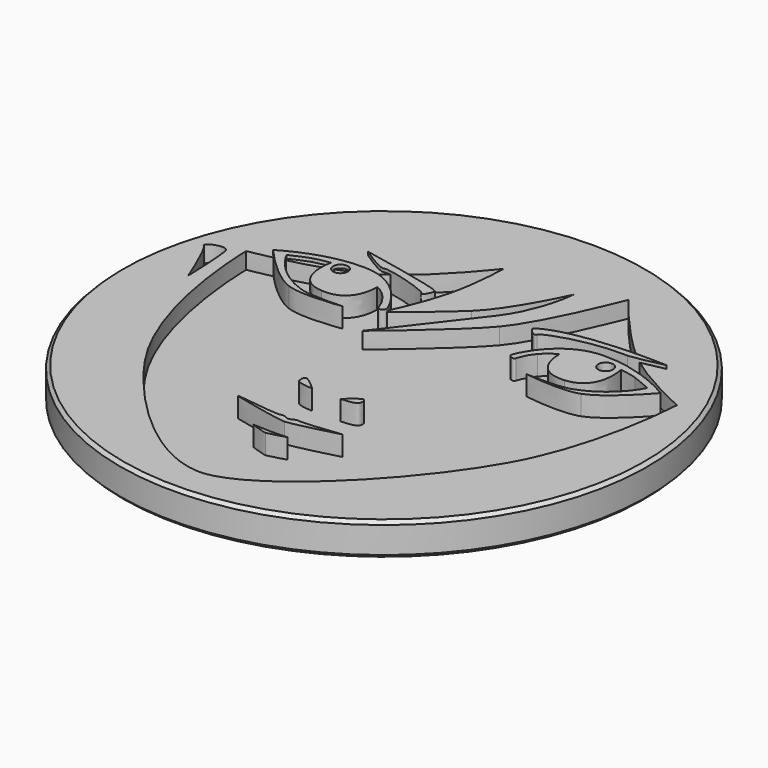
from build123d import *

# Parameters (mm, degrees)
POCKET_DEPTH = 1.25
PAD_DEPTH    = 1.5


with BuildPart() as part:
    # Sketch (on DatumPlane) → Revolution (revolve)
    with BuildSketch(Plane.YZ):
        Polygon((0, 0), (0, -2.5), (19.75, -2.5), (20, -2.25), (20, -0.25), (19.75, 0), align=None)
    revolve(axis=Axis((0, 0, 0), (0, 0, 1)))

    # Sketch005 → Pocket (cut)
    with BuildSketch(Plane.XY):
        with BuildLine():
            add(Edge.make_bspline(
                [(-0.194835, -17.48724), (-3.877835, -17.243823), (-8.725001, -12.301407), (-11.413168, -8.37499)],
                knots=[0, 0, 0, 0, 1, 1, 1, 1], degree=3))
            add(Edge.make_bspline(
                [(-11.413168, -8.37499), (-15.498334, -2.416573), (-15.498334, 6.325261), (-15.498334, 6.325261)],
                knots=[0, 0, 0, 0, 1, 1, 1, 1], degree=3))
            add(Edge.make_bspline(
                [(-15.498334, 6.325261), (-15.498334, 6.325261), (-11.529584, 6.970844), (-8.555668, 8.314927)],
                knots=[0, 0, 0, 0, 1, 1, 1, 1], degree=3))
            add(Edge.make_bspline(
                [(-8.555668, 8.314927), (-5.581751, 9.648427), (-2.184501, 14.082844), (-2.184501, 14.082844)],
                knots=[0, 0, 0, 0, 1, 1, 1, 1], degree=3))
            add(Edge.make_bspline(
                [(-2.184501, 14.082844), (-2.184501, 14.082844), (-2.205668, 11.701594), (-2.734835, 9.574344)],
                knots=[0, 0, 0, 0, 1, 1, 1, 1], degree=3))
            add(Edge.make_bspline(
                [(-2.734835, 9.574344), (-3.264001, 7.457677), (-4.407001, 5.182261), (-4.407001, 5.182261)],
                knots=[0, 0, 0, 0, 1, 1, 1, 1], degree=3))
            add(Edge.make_bspline(
                [(-4.407001, 5.182261), (-4.407001, 5.182261), (-1.983418, 7.087261), (-0.300668, 8.685344)],
                knots=[0, 0, 0, 0, 1, 1, 1, 1], degree=3))
            add(Edge.make_bspline(
                [(-0.300668, 8.685344), (1.382082, 10.272844), (3.117749, 14.082844), (3.117749, 14.082844)],
                knots=[0, 0, 0, 0, 1, 1, 1, 1], degree=3))
            add(Edge.make_bspline(
                [(3.117749, 14.082844), (3.117749, 14.082844), (2.884915, 11.257094), (1.212749, 9.087511)],
                knots=[0, 0, 0, 0, 1, 1, 1, 1], degree=3))
            add(Edge.make_bspline(
                [(1.212749, 9.087511), (0.704749, 8.420761), (-3.750835, 2.642261), (-3.750835, 2.642261)],
                knots=[0, 0, 0, 0, 1, 1, 1, 1], degree=3))
            add(Edge.make_bspline(
                [(-3.750835, 2.642261), (-3.750835, 2.642261), (0.598915, 6.208844), (2.239332, 8.135011)],
                knots=[0, 0, 0, 0, 1, 1, 1, 1], degree=3))
            add(Edge.make_bspline(
                [(2.239332, 8.135011), (3.953832, 10.156427), (6.059915, 15.575094), (6.059915, 15.575094)],
                knots=[0, 0, 0, 0, 1, 1, 1, 1], degree=3))
            add(Edge.make_bspline(
                [(6.059915, 15.575094), (6.059915, 15.575094), (8.779832, 12.040261), (11.245748, 9.997677)],
                knots=[0, 0, 0, 0, 1, 1, 1, 1], degree=3))
            add(Edge.make_bspline(
                [(11.245748, 9.997677), (13.193082, 8.399594), (16.738498, 6.833261), (16.738498, 6.833261)],
                knots=[0, 0, 0, 0, 1, 1, 1, 1], degree=3))
            add(Edge.make_bspline(
                [(16.738498, 6.833261), (16.738498, 6.833261), (16.431582, -0.02474), (13.574082, -5.115323)],
                knots=[0, 0, 0, 0, 1, 1, 1, 1], degree=3))
            add(Edge.make_bspline(
                [(13.574082, -5.115323), (10.494332, -10.618656), (3.488165, -17.730657), (-0.194835, -17.48724)],
                knots=[0, 0, 0, 0, 1, 1, 1, 1], degree=3))
        make_face()
        with BuildLine():
            add(Edge.make_bspline(
                [(-16.461418, 5.542094), (-16.313251, 4.843594), (-16.207418, 1.710927), (-16.207418, 1.710927)],
                knots=[0, 0, 0, 0, 1, 1, 1, 1], degree=3))
            add(Edge.make_bspline(
                [(-16.207418, 1.710927), (-16.207418, 1.710927), (-17.509168, 5.023511), (-17.890168, 5.298677)],
                knots=[0, 0, 0, 0, 1, 1, 1, 1], degree=3))
            add(Edge.make_bspline(
                [(-17.890168, 5.298677), (-18.260584, 5.563261), (-16.609584, 6.293511), (-16.461418, 5.542094)],
                knots=[0, 0, 0, 0, 1, 1, 1, 1], degree=3))
        make_face()
    extrude(amount=-POCKET_DEPTH, mode=Mode.SUBTRACT)

    # Sketch006 → Pad (join)
    with BuildSketch(Plane.XY.offset(-1.25)):
        with BuildLine():
            add(Edge.make_bspline(
                [(9.647665, 8.706511), (6.631415, 8.643011), (5.361415, 5.573844), (5.350832, 5.383344)],
                knots=[0, 0, 0, 0, 1, 1, 1, 1], degree=3))
            add(Edge.make_bspline(
                [(5.350832, 5.383344), (5.340249, 5.139927), (5.731832, 4.970594), (5.837665, 5.203427)],
                knots=[0, 0, 0, 0, 1, 1, 1, 1], degree=3))
            add(Edge.make_bspline(
                [(5.837665, 5.203427), (5.943499, 5.436261), (5.985832, 5.806677), (6.493832, 6.409927)],
                knots=[0, 0, 0, 0, 1, 1, 1, 1], degree=3))
            add(Edge.make_bspline(
                [(6.493832, 6.409927), (7.001832, 7.023761), (7.530999, 7.203677), (7.530999, 7.203677)],
                knots=[0, 0, 0, 0, 1, 1, 1, 1], degree=3))
            add(Edge.make_bspline(
                [(7.530999, 7.203677), (7.530999, 7.203677), (7.393415, 4.600177), (9.838165, 4.801261)],
                knots=[0, 0, 0, 0, 1, 1, 1, 1], degree=3))
            add(Edge.make_bspline(
                [(9.838165, 4.801261), (12.272332, 5.002344), (11.616165, 7.933927), (11.616165, 7.933927)],
                knots=[0, 0, 0, 0, 1, 1, 1, 1], degree=3))
            add(Edge.make_bspline(
                [(11.616165, 7.933927), (11.616165, 7.933927), (12.325248, 7.849261), (12.864998, 7.679927)],
                knots=[0, 0, 0, 0, 1, 1, 1, 1], degree=3))
            add(Edge.make_bspline(
                [(12.864998, 7.679927), (13.404748, 7.510594), (14.283165, 7.076677), (14.283165, 7.076677)],
                knots=[0, 0, 0, 0, 1, 1, 1, 1], degree=3))
            add(Edge.make_bspline(
                [(14.283165, 7.076677), (14.283165, 7.076677), (13.383582, 5.065844), (10.907082, 4.198011)],
                knots=[0, 0, 0, 0, 1, 1, 1, 1], degree=3))
            add(Edge.make_bspline(
                [(10.907082, 4.198011), (9.933415, 3.859344), (7.605082, 4.007511), (7.605082, 4.007511)],
                knots=[0, 0, 0, 0, 1, 1, 1, 1], degree=3))
            add(Edge.make_bspline(
                [(7.605082, 4.007511), (7.605082, 4.007511), (10.356748, 3.573594), (11.679665, 4.049844)],
                knots=[0, 0, 0, 0, 1, 1, 1, 1], degree=3))
            add(Edge.make_bspline(
                [(11.679665, 4.049844), (13.193082, 4.589594), (15.309748, 7.066094), (15.309748, 7.066094)],
                knots=[0, 0, 0, 0, 1, 1, 1, 1], degree=3))
            add(Edge.make_bspline(
                [(15.309748, 7.066094), (15.309748, 7.066094), (12.695665, 8.770011), (9.647665, 8.706511)],
                knots=[0, 0, 0, 0, 1, 1, 1, 1], degree=3))
        make_face()
        with BuildLine():
            add(Edge.make_bspline(
                [(10.674248, 7.097844), (10.367332, 7.097844), (10.113332, 7.351844), (10.113332, 7.658761)],
                knots=[0, 0, 0, 0, 1, 1, 1, 1], degree=3))
            add(Edge.make_bspline(
                [(10.113332, 7.658761), (10.113332, 7.965677), (10.367332, 8.219677), (10.674248, 8.219677)],
                knots=[0, 0, 0, 0, 1, 1, 1, 1], degree=3))
            add(Edge.make_bspline(
                [(10.674248, 8.219677), (10.981165, 8.219677), (11.235165, 7.965677), (11.235165, 7.658761)],
                knots=[0, 0, 0, 0, 1, 1, 1, 1], degree=3))
            add(Edge.make_bspline(
                [(11.235165, 7.658761), (11.245748, 7.351844), (10.991748, 7.097844), (10.674248, 7.097844)],
                knots=[0, 0, 0, 0, 1, 1, 1, 1], degree=3))
        make_face(mode=Mode.SUBTRACT)
        with BuildLine():
            add(Edge.make_bspline(
                [(-14.048418, 7.055511), (-14.048418, 7.055511), (-11.931751, 4.589594), (-10.418334, 4.039261)],
                knots=[0, 0, 0, 0, 1, 1, 1, 1], degree=3))
            add(Edge.make_bspline(
                [(-10.418334, 4.039261), (-9.095418, 3.563011), (-6.343751, 3.996927), (-6.343751, 3.996927)],
                knots=[0, 0, 0, 0, 1, 1, 1, 1], degree=3))
            add(Edge.make_bspline(
                [(-6.343751, 3.996927), (-6.343751, 3.996927), (-8.672084, 3.848761), (-9.645751, 4.187427)],
                knots=[0, 0, 0, 0, 1, 1, 1, 1], degree=3))
            add(Edge.make_bspline(
                [(-9.645751, 4.187427), (-12.122251, 5.055261), (-13.021834, 7.066094), (-13.021834, 7.066094)],
                knots=[0, 0, 0, 0, 1, 1, 1, 1], degree=3))
            add(Edge.make_bspline(
                [(-13.021834, 7.066094), (-13.021834, 7.066094), (-12.143418, 7.489427), (-11.603668, 7.669344)],
                knots=[0, 0, 0, 0, 1, 1, 1, 1], degree=3))
            add(Edge.make_bspline(
                [(-11.603668, 7.669344), (-11.063918, 7.838677), (-10.354834, 7.923344), (-10.354834, 7.923344)],
                knots=[0, 0, 0, 0, 1, 1, 1, 1], degree=3))
            add(Edge.make_bspline(
                [(-10.354834, 7.923344), (-10.354834, 7.923344), (-11.011001, 4.991761), (-8.576834, 4.790677)],
                knots=[0, 0, 0, 0, 1, 1, 1, 1], degree=3))
            add(Edge.make_bspline(
                [(-8.576834, 4.790677), (-6.132084, 4.589594), (-6.269668, 7.193094), (-6.269668, 7.193094)],
                knots=[0, 0, 0, 0, 1, 1, 1, 1], degree=3))
            add(Edge.make_bspline(
                [(-6.269668, 7.193094), (-6.269668, 7.193094), (-5.729918, 7.013177), (-5.232501, 6.399344)],
                knots=[0, 0, 0, 0, 1, 1, 1, 1], degree=3))
            add(Edge.make_bspline(
                [(-5.232501, 6.399344), (-4.724501, 5.785511), (-4.682168, 5.415094), (-4.576335, 5.192844)],
                knots=[0, 0, 0, 0, 1, 1, 1, 1], degree=3))
            add(Edge.make_bspline(
                [(-4.576335, 5.192844), (-4.470501, 4.960011), (-4.078918, 5.129344), (-4.089501, 5.372761)],
                knots=[0, 0, 0, 0, 1, 1, 1, 1], degree=3))
            add(Edge.make_bspline(
                [(-4.089501, 5.372761), (-4.100085, 5.563261), (-5.370084, 8.621844), (-8.386334, 8.695927)],
                knots=[0, 0, 0, 0, 1, 1, 1, 1], degree=3))
            add(Edge.make_bspline(
                [(-8.386334, 8.695927), (-11.434334, 8.770011), (-14.048418, 7.055511), (-14.048418, 7.055511)],
                knots=[0, 0, 0, 0, 1, 1, 1, 1], degree=3))
        make_face()
        with BuildLine():
            add(Edge.make_bspline(
                [(-9.973834, 7.658761), (-9.973834, 7.965677), (-9.719834, 8.219677), (-9.412918, 8.219677)],
                knots=[0, 0, 0, 0, 1, 1, 1, 1], degree=3))
            add(Edge.make_bspline(
                [(-9.412918, 8.219677), (-9.106001, 8.219677), (-8.852001, 7.965677), (-8.852001, 7.658761)],
                knots=[0, 0, 0, 0, 1, 1, 1, 1], degree=3))
            add(Edge.make_bspline(
                [(-8.852001, 7.658761), (-8.852001, 7.351844), (-9.106001, 7.097844), (-9.412918, 7.097844)],
                knots=[0, 0, 0, 0, 1, 1, 1, 1], degree=3))
            add(Edge.make_bspline(
                [(-9.412918, 7.097844), (-9.719834, 7.097844), (-9.973834, 7.351844), (-9.973834, 7.658761)],
                knots=[0, 0, 0, 0, 1, 1, 1, 1], degree=3))
        make_face(mode=Mode.SUBTRACT)
        with BuildLine():
            add(Edge.make_bspline(
                [(-3.740251, 8.219677), (-3.623835, 7.912761), (-3.306335, 8.600677), (-3.242835, 8.886427)],
                knots=[0, 0, 0, 0, 1, 1, 1, 1], degree=3))
            add(Edge.make_bspline(
                [(-3.242835, 8.886427), (-3.189918, 9.172177), (-9.539918, 10.410427), (-9.539918, 10.410427)],
                knots=[0, 0, 0, 0, 1, 1, 1, 1], degree=3))
            add(Edge.make_bspline(
                [(-9.539918, 10.410427), (-9.539918, 10.410427), (-7.783084, 9.172177), (-7.402084, 9.309761)],
                knots=[0, 0, 0, 0, 1, 1, 1, 1], degree=3))
            add(Edge.make_bspline(
                [(-7.402084, 9.309761), (-7.021084, 9.457927), (-3.856668, 8.526594), (-3.740251, 8.219677)],
                knots=[0, 0, 0, 0, 1, 1, 1, 1], degree=3))
        make_face()
        with BuildLine():
            add(Edge.make_bspline(
                [(4.927499, 8.346677), (4.811082, 8.039761), (4.049082, 8.738261), (4.303082, 8.886427)],
                knots=[0, 0, 0, 0, 1, 1, 1, 1], degree=3))
            add(Edge.make_bspline(
                [(4.303082, 8.886427), (6.790165, 10.410427), (13.341248, 10.071761), (13.341248, 10.071761)],
                knots=[0, 0, 0, 0, 1, 1, 1, 1], degree=3))
            add(Edge.make_bspline(
                [(13.341248, 10.071761), (13.341248, 10.071761), (11.203415, 9.584927), (10.790665, 9.595511)],
                knots=[0, 0, 0, 0, 1, 1, 1, 1], degree=3))
            add(Edge.make_bspline(
                [(10.790665, 9.595511), (7.753248, 9.690761), (5.043915, 8.653594), (4.927499, 8.346677)],
                knots=[0, 0, 0, 0, 1, 1, 1, 1], degree=3))
        make_face()
        with BuildLine():
            add(Edge.make_bspline(
                [(-1.157918, -5.348156), (-1.157918, -5.348156), (-2.300918, -5.32699), (-2.375001, -5.04124)],
                knots=[0, 0, 0, 0, 1, 1, 1, 1], degree=3))
            add(Edge.make_bspline(
                [(-2.375001, -5.04124), (-2.449085, -4.75549), (-2.427918, -4.66024), (-2.279751, -4.543823)],
                knots=[0, 0, 0, 0, 1, 1, 1, 1], degree=3))
            add(Edge.make_bspline(
                [(-2.279751, -4.543823), (-2.131585, -4.43799), (-1.157918, -5.348156), (-1.157918, -5.348156)],
                knots=[0, 0, 0, 0, 1, 1, 1, 1], degree=3))
        make_face()
        with BuildLine():
            add(Edge.make_bspline(
                [(0.990499, -5.348156), (0.990499, -5.348156), (2.133499, -5.32699), (2.207582, -5.04124)],
                knots=[0, 0, 0, 0, 1, 1, 1, 1], degree=3))
            add(Edge.make_bspline(
                [(2.207582, -5.04124), (2.281665, -4.75549), (2.260499, -4.66024), (2.112332, -4.543823)],
                knots=[0, 0, 0, 0, 1, 1, 1, 1], degree=3))
            add(Edge.make_bspline(
                [(2.112332, -4.543823), (1.964165, -4.43799), (0.990499, -5.348156), (0.990499, -5.348156)],
                knots=[0, 0, 0, 0, 1, 1, 1, 1], degree=3))
        make_face()
        with BuildLine():
            add(Edge.make_bspline(
                [(-3.973085, -8.840656), (-3.676751, -8.97824), (-0.184251, -9.70849), (0.217915, -9.697906)],
                knots=[0, 0, 0, 0, 1, 1, 1, 1], degree=3))
            add(Edge.make_bspline(
                [(0.217915, -9.697906), (0.620082, -9.687323), (3.826832, -8.893573), (3.922082, -8.840656)],
                knots=[0, 0, 0, 0, 1, 1, 1, 1], degree=3))
            add(Edge.make_bspline(
                [(3.922082, -8.840656), (4.017332, -8.78774), (1.180999, -9.20049), (0.747082, -9.084073)],
                knots=[0, 0, 0, 0, 1, 1, 1, 1], degree=3))
            add(Edge.make_bspline(
                [(0.747082, -9.084073), (0.567165, -9.04174), (0.387249, -9.26399), (0.143832, -9.26399)],
                knots=[0, 0, 0, 0, 1, 1, 1, 1], degree=3))
            add(Edge.make_bspline(
                [(0.143832, -9.26399), (-0.099585, -9.26399), (-0.152501, -9.04174), (-0.491168, -9.13699)],
                knots=[0, 0, 0, 0, 1, 1, 1, 1], degree=3))
            add(Edge.make_bspline(
                [(-0.491168, -9.13699), (-0.956835, -9.274573), (-4.269418, -8.703073), (-3.973085, -8.840656)],
                knots=[0, 0, 0, 0, 1, 1, 1, 1], degree=3))
        make_face()
        with BuildLine():
            add(Edge.make_bspline(
                [(-0.956835, -11.13724), (-1.052085, -11.126656), (0.027415, -11.51824), (0.239082, -11.507656)],
                knots=[0, 0, 0, 0, 1, 1, 1, 1], degree=3))
            add(Edge.make_bspline(
                [(0.239082, -11.507656), (0.450749, -11.497073), (1.699582, -11.126656), (1.614915, -11.13724)],
                knots=[0, 0, 0, 0, 1, 1, 1, 1], degree=3))
            add(Edge.make_bspline(
                [(1.614915, -11.13724), (0.895249, -11.23249), (-0.480585, -11.16899), (-0.956835, -11.13724)],
                knots=[0, 0, 0, 0, 1, 1, 1, 1], degree=3))
        make_face()
    extrude(amount=PAD_DEPTH)


solid = part.part
